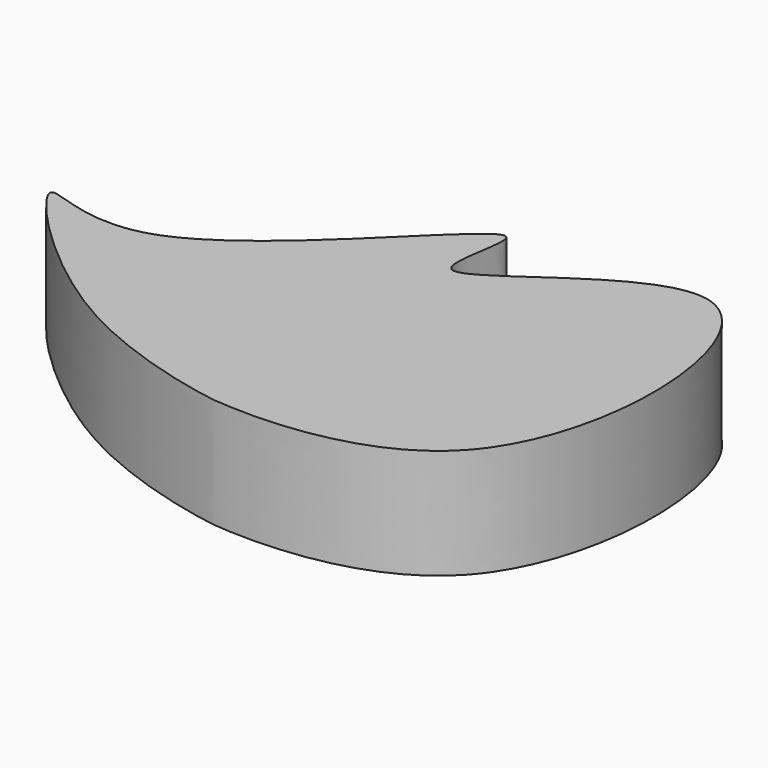
from build123d import *

# Parameters (mm, degrees)
F1_DEPTH = 25.4


with BuildPart() as f1:
    # F0 (on Top) → F1 (new body)
    with BuildSketch(Plane.XY):
        with BuildLine():
            add(Edge.make_bspline(
                [(46.2055392563, 0), (31.0340954128, -16.4440919558), (-0.8113107221, -13.1217600757), (-1.3366201749, -13.1161490755), (-2.0453568121, -13.0441087495), (-42.73107764, -6.7912930541), (-88.833122011, 43.3703929552), (-46.708593947, 14.8549936407), (10.0271505483, 91.5328645554), (-9.7017498402, 35.0465693588), (58.8170464837, 109.1365672441), (64.7551640772, 20.105649762), (46.2055392563, 0)],
                knots=[0, 0, 0, 0, 0.1307338792, 0.1397964661, 0.1487314515, 0.2673879218, 0.3960511991, 0.4876922997, 0.6372314164, 0.7115294654, 0.8401559907, 1, 1, 1, 1], degree=3))
        make_face()
    extrude(amount=F1_DEPTH)


solid = f1.part
